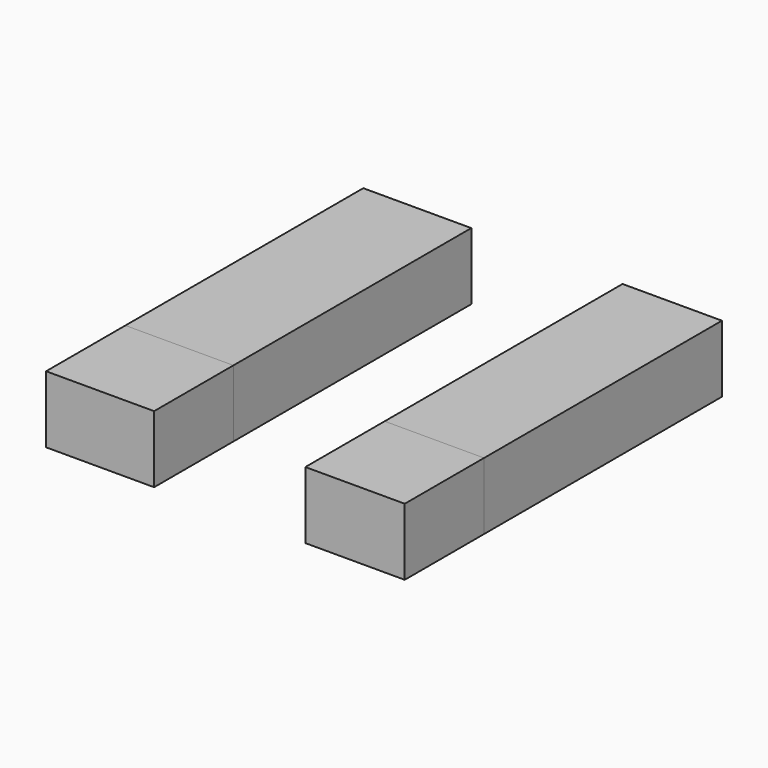
from build123d import *

# Parameters (mm, degrees)
F0_W     = 13.84256
F0_H     = 8.582387
F0_W_2   = 12.735156
F1_DEPTH = 50.8
F2_DEPTH = 38.1


with BuildPart() as f1:
    # F0 (on Front) → F1 (new body)
    with BuildSketch(Plane.XZ):
        with Locations((-51.701963, -45.195961)):
            Rectangle(F0_W, F0_H)
        with Locations((-19.033521, -45.195961)):
            Rectangle(F0_W_2, F0_H)
    extrude(amount=F1_DEPTH)


with BuildPart() as f2:
    # F0 (on Front) → F2 (new body)
    with BuildSketch(Plane.XZ):
        with Locations((-51.701963, -45.195961)):
            Rectangle(F0_W, F0_H)
        with Locations((-19.033521, -45.195961)):
            Rectangle(F0_W_2, F0_H)
    extrude(amount=F2_DEPTH)


solid = Compound([f1.part, f2.part])
